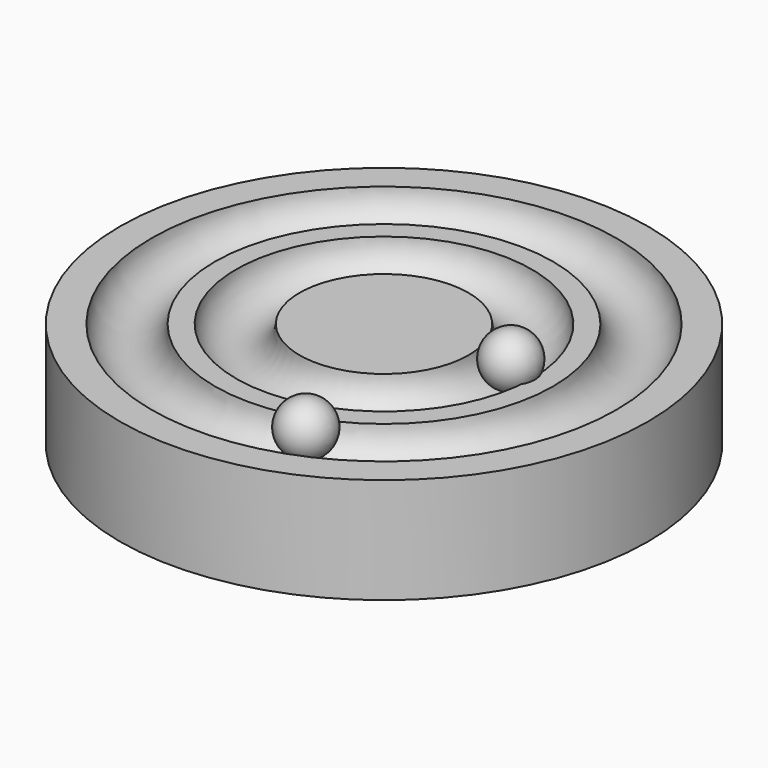
from build123d import *

# Parameters (mm, degrees)
TORUS001_R     = 3
TORUS_R        = 3
CYLINDER_R     = 25
CYLINDER_DEPTH = 10


with BuildPart() as torus001:
    # Torus001 → Torus001 (revolve)
    with BuildSketch(Plane(origin=(0, 0, 10), x_dir=(1, 0, 0), z_dir=(0, -1, 0))):
        with Locations((19, 0)):
            Circle(TORUS001_R)
    revolve(axis=Axis((0, 0, 10), (0, 0, 1)))


with BuildPart() as fusion:
    # Torus → Torus (revolve)
    with BuildSketch(Plane(origin=(0, 0, 10), x_dir=(1, 0, 0), z_dir=(0, -1, 0))):
        with Locations((11, 0)):
            Circle(TORUS_R)
    revolve(axis=Axis((0, 0, 10), (0, 0, 1)))

    # Fusion: union Torus001
    add(torus001.part)


with BuildPart() as cut:
    # Cylinder → Cylinder (new body)
    with BuildSketch(Plane.XY):
        Circle(CYLINDER_R)
    extrude(amount=CYLINDER_DEPTH)

    # Cut: cut Fusion
    add(fusion.part, mode=Mode.SUBTRACT)


with BuildPart() as sphere:
    # Sphere → Sphere (revolve)
    with BuildSketch(Plane(origin=(12, 0, 11), x_dir=(1, 0, 0), z_dir=(0, -1, 0))):
        with BuildLine():
            ThreePointArc((0, -2.5), (2.5, 0), (0, 2.5))
            Line((0, 2.5), (0, -2.5))
        make_face()
    revolve(axis=Axis((12, 0, 11), (0, 0, 1)))


with BuildPart() as sphere001:
    # Sphere001 → Sphere001 (revolve)
    with BuildSketch(Plane(origin=(7, -18, 11), x_dir=(1, 0, 0), z_dir=(0, -1, 0))):
        with BuildLine():
            ThreePointArc((0, -2.5), (2.5, 0), (0, 2.5))
            Line((0, 2.5), (0, -2.5))
        make_face()
    revolve(axis=Axis((7, -18, 11), (0, 0, 1)))


solid = Compound([cut.part, sphere.part, sphere001.part])
